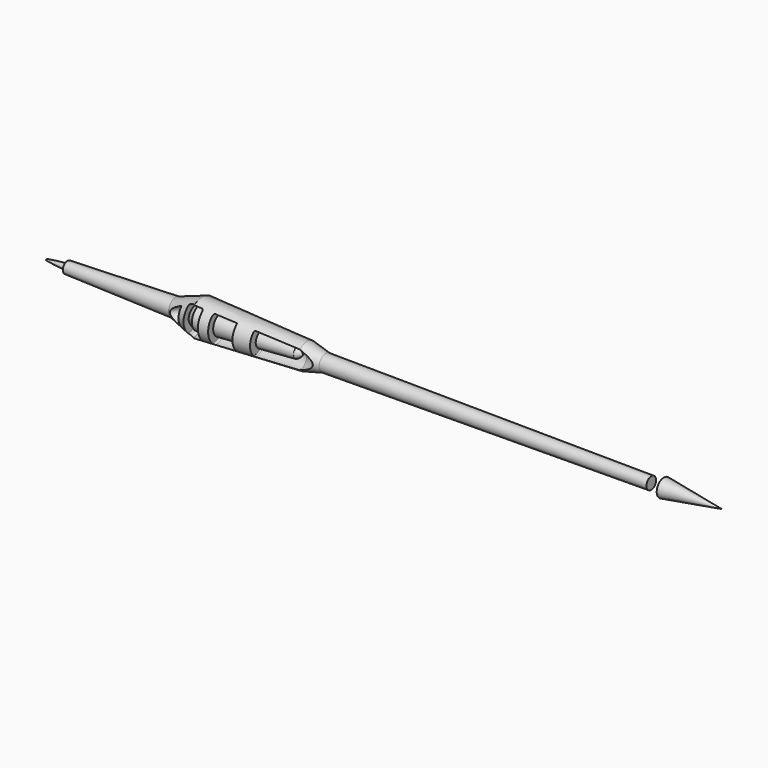
from build123d import *


with BuildPart() as f2:
    # F1 (on Front) → F2 (revolve)
    with BuildSketch(Plane.XZ):
        Polygon((-173.4278549195, 2.8047802757), (-171.9291955233, 0), (-110.9794154763, 0), (-110.9794154763, 5.1309079863), (-173.4424680471, 3.3045666866), align=None)
    revolve(axis=Axis((0, 0, 0), (1, 0, 0)))


with BuildPart() as f4:
    # F3 (on Front) → F4 (revolve)
    with BuildSketch(Plane.XZ):
        Polygon((-110.9794154763, 5.1309079863), (-110.9794154763, 0), (-24.3898555636, 0), (-24.3898555636, 4.7382046469), (-35.2084897459, 7.3319603689), (-95.594920218, 10.2502955124), align=None)
    revolve(axis=Axis((-110.9794154763, 0, 0), (1, 0, 0)))

    # F5 (on Front) → F6 (revolve)
    with BuildSketch(Plane.XZ):
        Polygon((163.5728478432, 3.4908105154), (-24.3898555636, 4.7382046469), (-24.3898555636, 0), (163.5728478432, 0), align=None)
    revolve(axis=Axis((-24.3898555636, 0, 0), (1, 0, 0)))


with BuildPart() as f8:
    # F7 (on Front) → F8 (revolve)
    with BuildSketch(Plane.XZ):
        Polygon((170.8078235388, -4.2573520914), (170.8078235388, -5.1378295757), (204.3365985155, 0), (179.0860891342, 0.0003622621), (179.0860891342, -2.9920432717), align=None)
    revolve(axis=Axis((191.7113438249, 0, 0.0001811311), (-0.9999999999, 0, 1.43467e-05)))


with BuildPart() as f10:
    # F9 (on Front) → F10 (revolve)
    with BuildSketch(Plane.XZ):
        with BuildLine():
            add(Edge.make_bspline(
                [(-105.4115593433, 0), (-105.4076738607, 0.191000429), (-105.3980415468, 0.664500448), (-104.6893438863, 1.9397422477), (-103.3941651165, 2.8088763728), (-101.5405460835, 4.0388595018), (-98.3528447751, 5.6941822205), (-96.818526877, 6.4883400733), (-96.1204022169, 6.8496870808)],
                knots=[0, 0, 0, 0, 0.0967444549, 0.2398345463, 0.3912397689, 0.5741347733, 0.8062285417, 1, 1, 1, 1], degree=3))
            Line((-105.4115593433, 0), (-37.4417677522, 0))
            add(Edge.make_bspline(
                [(-40.5513867736, 3.1227306463), (-40.1261384996, 2.9173607322), (-39.2493829265, 2.493939339), (-37.9982054054, 1.394076811), (-37.5218392792, 0.6517026021), (-37.4670312199, 0.2056195037), (-37.4417677522, 0)],
                knots=[0, 0, 0, 0, 0.2875377637, 0.5928309466, 0.8123177072, 1, 1, 1, 1], degree=3))
            Line((-40.5513867736, 3.1227306463), (-96.1204022169, 6.8496870808))
        make_face()
    revolve(axis=Axis((-71.4266635478, 0, 0), (1, 0, 0)))


with BuildPart() as f13:
    # F12 (on offset) → F13 (revolve)
    with BuildSketch(Plane.XZ.offset(5.5)):
        with BuildLine():
            Line((-103.1502857804, 0), (-103.1502857804, 5.5458163843))
            add(Edge.make_bspline(
                [(-109.9613383412, 0), (-109.9347064662, 0.2439120698), (-109.8758574974, 0.7828892834), (-109.2456183705, 1.8060226287), (-107.7287058007, 3.2429187708), (-104.9014229083, 4.6650126365), (-103.1502857804, 5.5458163843)],
                knots=[0, 0, 0, 0, 0.1545038805, 0.3414102102, 0.592088561, 1, 1, 1, 1], degree=3))
            Line((-109.9613383412, 0), (-103.1502857804, 0))
        make_face()
    revolve(axis=Axis((-106.5558120608, -5.5, 0), (-1, 0, 0)))


with BuildPart() as f13b:
    # F12 (on offset) → F13, piece 2 (revolve)
    with BuildSketch(Plane.XZ.offset(5.5)):
        with BuildLine():
            Line((-99.0516257422, 6.8387478773), (-99.3343666196, 0))
            Line((-99.3343666196, 0), (-90.1784226298, 0))
            Line((-90.1784226298, 0), (-90.1784226298, 7.2164040901))
            ThreePointArc((-90.1784226298, 7.2164040901), (-90.4531596403, 7.9048760183), (-91.1264098217, 8.2150505079))
            Line((-91.1264098217, 8.2150505079), (-96.1491516893, 8.4766515152))
            ThreePointArc((-96.1491516893, 8.4766515152), (-96.3404683485, 8.4682547816), (-96.5266763776, 8.4235430479))
            Line((-96.5266763776, 8.4235430479), (-98.2792436576, 7.8202024098))
            add(Edge.make_bspline(
                [(-99.0516257422, 6.8387478773), (-99.0303241476, 6.9849653346), (-98.9884479255, 7.2724102337), (-98.7136812651, 7.59570119), (-98.4288018751, 7.7429162779), (-98.2792436576, 7.8202024098)],
                knots=[0, 0, 0, 0, 0.3296669902, 0.6480833167, 1, 1, 1, 1], degree=3))
        make_face()
    revolve(axis=Axis((-106.5558120608, -5.5, 0), (-1, 0, 0)))


with BuildPart() as f13c:
    # F12 (on offset) → F13, piece 3 (revolve)
    with BuildSketch(Plane.XZ.offset(5.5)):
        with BuildLine():
            Line((-84.4573378563, 6.8142644604), (-84.4573378563, 0))
            Line((-84.4573378563, 0), (-70.9598511457, 0))
            Line((-70.9598511457, 0), (-70.9598511457, 6.7823384888))
            ThreePointArc((-70.9598511457, 6.7823384888), (-71.0492584385, 7.0376057544), (-71.2784021153, 7.1813006264))
            Line((-71.2784021153, 7.1813006264), (-83.4053250482, 7.8129108782))
            ThreePointArc((-83.4053250482, 7.8129108782), (-84.1458097845, 7.53952745), (-84.4573378563, 6.8142644604))
        make_face()
    revolve(axis=Axis((-106.5558120608, -5.5, 0), (-1, 0, 0)))


with BuildPart() as f13d:
    # F12 (on offset) → F13, piece 4 (revolve)
    with BuildSketch(Plane.XZ.offset(5.5)):
        with BuildLine():
            Line((-61.1531883478, 5.9631252661), (-61.1531883478, 0))
            Line((-61.1531883478, 0), (-27.4005327374, 0))
            add(Edge.make_bspline(
                [(-35.213034415, 5.3028970035), (-34.4833349012, 5.0225687853), (-32.96821989, 4.4405079735), (-30.5019428379, 3.3715375483), (-28.3936935101, 1.9350709477), (-27.5939262433, 0.9922970667), (-27.4628645913, 0.3198231272), (-27.4005327374, 0)],
                knots=[0, 0, 0, 0, 0.2250902583, 0.4673672146, 0.6992006416, 0.8569422757, 1, 1, 1, 1], degree=3))
            Line((-35.213034415, 5.3028970035), (-60.4681589166, 6.6182674097))
            ThreePointArc((-60.4681589166, 6.6182674097), (-60.9506566148, 6.4370652808), (-61.1531883478, 5.9631252661))
        make_face()
    revolve(axis=Axis((-106.5558120608, -5.5, 0), (-1, 0, 0)))


with BuildPart() as f14_1:
    # F14: instance of F13
    add(f13.part.mirror(Plane.XZ))


with BuildPart() as f14_2:
    # F14: instance of F13b
    add(f13b.part.mirror(Plane.XZ))


with BuildPart() as f14_3:
    # F14: instance of F13c
    add(f13c.part.mirror(Plane.XZ))


with BuildPart() as f14_4:
    # F14: instance of F13d
    add(f13d.part.mirror(Plane.XZ))


with BuildPart() as f4_1:
    add(f4.part)

    # F15: cut F14_1, F13, F13b, F13c, F13d, F14_4, F14_3, F14_2
    add(f14_1.part, mode=Mode.SUBTRACT)
    add(f13.part, mode=Mode.SUBTRACT)
    add(f13b.part, mode=Mode.SUBTRACT)
    add(f13c.part, mode=Mode.SUBTRACT)
    add(f13d.part, mode=Mode.SUBTRACT)
    add(f14_4.part, mode=Mode.SUBTRACT)
    add(f14_3.part, mode=Mode.SUBTRACT)
    add(f14_2.part, mode=Mode.SUBTRACT)


with BuildPart() as f17:
    # F16 (on Front) → F17 (revolve)
    with BuildSketch(Plane.XZ):
        with BuildLine():
            Line((-185.64902246, 0), (-170.9294319153, 0))
            Line((-170.9294319153, 0), (-170.9294319153, 1.5694783069))
            Line((-170.9294319153, 1.5694783069), (-174.4630485773, 1.5694783069))
            add(Edge.make_bspline(
                [(-185.64902246, 0), (-185.6217943307, 0.0997035946), (-185.5533766123, 0.3502346681), (-184.780201134, 0.5194918477), (-176.6082965502, 1.5387508641), (-175.0137379008, 1.5615905126), (-174.4630485773, 1.5694783069)],
                knots=[0, 0, 0, 0, 0.0939171943, 0.2359912458, 0.736145507, 1, 1, 1, 1], degree=3))
        make_face()
    revolve(axis=Axis((-96.830226481, 0, 0), (-1, 0, 0)))


with BuildPart() as f18_1:
    # F18: copy of F17
    add(f17.part)


with BuildPart() as f2_1:
    add(f2.part)

    # F19: cut F18_1
    add(f18_1.part, mode=Mode.SUBTRACT)


with BuildPart() as f20_1:
    # F20: copy of F10
    add(f10.part)


with BuildPart() as f4_2:
    add(f4_1.part)

    # F21: cut F20_1
    add(f20_1.part, mode=Mode.SUBTRACT)


solid = Compound([f8.part, f10.part, f17.part, f2_1.part, f4_2.part])
